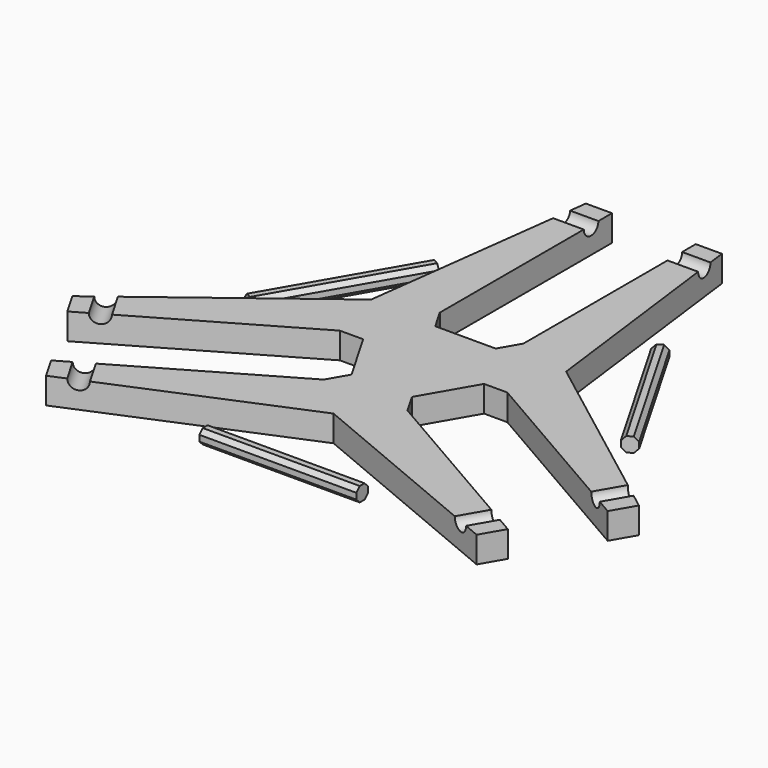
from build123d import *

# Parameters (mm, degrees)
F1_DEPTH = 5
F2_R     = 1.75
F3_DEPTH = 25
F4_COUNT = 3
F5_DEPTH = 15
F7_COUNT = 3


with BuildPart() as f1:
    # F0 (on Top) → F1 (new body)
    with BuildSketch(Plane.XY):
        Polygon((0, 10), (0, 0), (20, 0), (13, 55), (8, 55), (8, 10), align=None)
        Polygon((-20, 0), (0, 0), (0, 10), (-8, 10), (-8, 55), (-13, 55), align=None)
    extrude(amount=F1_DEPTH)

    # F2 (on Right) → F3 (cut, symmetric)
    with BuildSketch(Plane.YZ):
        with Locations((50, 5)):
            Circle(F2_R)
    extrude(amount=F3_DEPTH, both=True, mode=Mode.SUBTRACT)

    # F4: F1 ×3 about axis
    f4_axis = Axis((0, 0, 3.692186), (0, 0, -1))


with BuildPart() as f1_1:
    add(f1.part)
    for i in range(1, F4_COUNT):
        add(f1.part.rotate(f4_axis, i * 360 / F4_COUNT))


with BuildPart() as f5:
    # F2 (on Right) → F5 (new body, symmetric)
    with BuildSketch(Plane.YZ):
        Polygon((-72.820385, 0.811794), (-72.008591, 0), (-70.860541, 0), (-70.048746, 0.811794), (-70.048746, 1.959844), (-70.860541, 2.771639), (-72.008591, 2.771639), (-72.820385, 1.959844), align=None)
    extrude(amount=F5_DEPTH, both=True)


with BuildPart() as f5_1:
    # F6: moved
    add(f5.part.moved(Location((0, 38, 0))))


with BuildPart() as f7_1:
    # F7: instance of F5
    add(f5_1.part.rotate(Axis((0, 0, 3.692186), (0, 0, -1)), 1 * 360 / F7_COUNT))


with BuildPart() as f7_2:
    # F7: instance of F5
    add(f5_1.part.rotate(Axis((0, 0, 3.692186), (0, 0, -1)), 2 * 360 / F7_COUNT))


solid = Compound([f1_1.part, f5_1.part, f7_1.part, f7_2.part])
